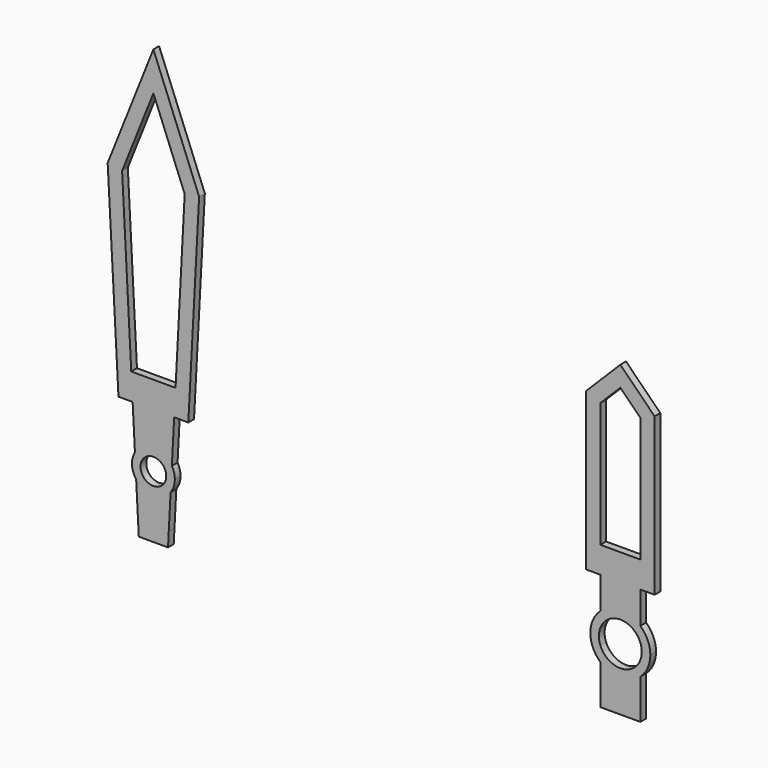
from build123d import *

# Parameters (mm, degrees)
F1_DEPTH = 0.25
F0_W     = 1.4
F0_H     = 0.5
F0_W_2   = 0.5
F0_H_2   = 0.9224010788
F0_W_3   = 0.7


with BuildPart() as f1:
    # F0 (on Front) → F1 (new body)
    with BuildSketch(Plane.XZ):
        Polygon((-37.0991800716, -2.1753170716), (-36.0761235664, -2.1753170716), (-36.0497890945, -1.6753170716), (-37.1255145435, -1.6753170716), align=None)
        Polygon((-34.987651819, 8.9829219505), (-36.587651819, 13), (-36.587651819, 11.6487521661), (-35.4928014695, 8.8999400996), (-35.8126961933, 2.8262522461), (-35.316756933, 2.8262522461), align=None)
        Polygon((-36.587651819, 11.6487521661), (-36.587651819, 13), (-38.187651819, 8.9829219505), (-37.858546705, 2.8262522461), (-37.3626074446, 2.8262522461), (-37.6825021685, 8.8999400996), align=None)
        with BuildLine():
            ThreePointArc((-35.941497264, 0.380768028), (-36.2155470091, 0.6511820103), (-36.587651819, 0.75))
            ThreePointArc((-36.587651819, 0.75), (-36.9597566288, 0.6511820103), (-37.2338063739, 0.380768028))
            ThreePointArc((-37.2338063739, 0.380768028), (-37.3366137217, -0.0394470323), (-37.1902330591, -0.4465376233))
            ThreePointArc((-37.1902330591, -0.4465376233), (-36.587651819, -0.75), (-35.9850705789, -0.4465376233))
            ThreePointArc((-35.9850705789, -0.4465376233), (-35.8754594538, -0.2351213196), (-35.837651819, 0))
            ThreePointArc((-35.837651819, 0), (-35.8640787694, 0.1973373809), (-35.941497264, 0.380768028))
        make_face()
        with BuildLine():
            ThreePointArc((-36.137651819, 0), (-36.9058498705, -0.3181980515), (-36.587651819, 0.45))
            ThreePointArc((-36.587651819, 0.45), (-36.2694537675, 0.3181980515), (-36.137651819, 0))
        make_face(mode=Mode.SUBTRACT)
        with BuildLine():
            Line((-37.1902330591, -0.4465376233), (-37.1255145435, -1.6753170716))
            Line((-37.1255145435, -1.6753170716), (-36.0497890945, -1.6753170716))
            Line((-36.0497890945, -1.6753170716), (-35.9850705789, -0.4465376233))
            ThreePointArc((-35.9850705789, -0.4465376233), (-36.587651819, -0.75), (-37.1902330591, -0.4465376233))
        make_face()
        with BuildLine():
            Line((-35.8612780839, 1.9038511673), (-36.587651819, 1.9038511673))
            Line((-36.587651819, 1.9038511673), (-36.587651819, 0.75))
            ThreePointArc((-36.587651819, 0.75), (-36.2155470091, 0.6511820103), (-35.941497264, 0.380768028))
            Line((-35.941497264, 0.380768028), (-35.8612780839, 1.9038511673))
        make_face()
        with BuildLine():
            Line((-36.587651819, 0.75), (-36.587651819, 1.9038511673))
            Line((-36.587651819, 1.9038511673), (-37.3140255541, 1.9038511673))
            Line((-37.3140255541, 1.9038511673), (-37.2338063739, 0.380768028))
            ThreePointArc((-37.2338063739, 0.380768028), (-36.9597566288, 0.6511820103), (-36.587651819, 0.75))
        make_face()
        Polygon((-37.3626074446, 2.8262522461), (-37.858546705, 2.8262522461), (-37.8092397051, 1.9038511673), (-37.3140255541, 1.9038511673), align=None)
        Polygon((-36.587651819, 1.9038511673), (-36.587651819, 2.8262522461), (-37.3626074446, 2.8262522461), (-37.3140255541, 1.9038511673), align=None)
        Polygon((-35.8126961933, 2.8262522461), (-36.587651819, 2.8262522461), (-36.587651819, 1.9038511673), (-35.8612780839, 1.9038511673), align=None)
        Polygon((-35.3660639329, 1.9038511673), (-35.316756933, 2.8262522461), (-35.8126961933, 2.8262522461), (-35.8612780839, 1.9038511673), align=None)
    extrude(amount=F1_DEPTH)


with BuildPart() as f1b:
    # F0 (on Front) → F1, piece 2 (new body)
    with BuildSketch(Plane.XZ):
        Polygon((-19.0497518182, 7.4), (-20.2497518182, 8.6), (-20.2497518182, 7.8928932188), (-19.5497518182, 7.1928932188), (-19.5497518182, 2.8262522461), (-19.0497518182, 2.8262522461), align=None)
        Polygon((-21.4497518182, 7.4), (-21.4497518182, 2.8262522461), (-20.9497518182, 2.8262522461), (-20.9497518182, 7.1928932188), (-20.2497518182, 7.8928932188), (-20.2497518182, 8.6), align=None)
        with BuildLine():
            ThreePointArc((-19.5497518182, 0.7826237921), (-19.8750886239, 0.9808809769), (-20.2497518182, 1.05))
            Line((-20.2497518182, 1.05), (-20.2497518182, 0.75))
            ThreePointArc((-20.2497518182, 0.75), (-19.8251600615, 0.618240924), (-19.5497518182, 0.2692582404))
            Line((-19.5497518182, 0.2692582404), (-19.5497518182, 0.7826237921))
        make_face()
        with BuildLine():
            ThreePointArc((-20.2497518182, 1.05), (-20.6244150124, 0.9808809769), (-20.9497518182, 0.7826237921))
            Line((-20.9497518182, 0.7826237921), (-20.9497518182, 0.2692582404))
            ThreePointArc((-20.9497518182, 0.2692582404), (-20.6743435749, 0.618240924), (-20.2497518182, 0.75))
            Line((-20.2497518182, 0.75), (-20.2497518182, 1.05))
        make_face()
        with BuildLine():
            Line((-20.9497518182, 0.2692582404), (-20.9497518182, 0.7826237921))
            ThreePointArc((-20.9497518182, 0.7826237921), (-21.2997518182, 0), (-20.9497518182, -0.7826237921))
            Line((-20.9497518182, -0.7826237921), (-20.9497518182, -0.2692582404))
            ThreePointArc((-20.9497518182, -0.2692582404), (-20.9997518182, 0), (-20.9497518182, 0.2692582404))
        make_face()
        with BuildLine():
            Line((-20.9497518182, -0.2692582404), (-20.9497518182, -0.7826237921))
            ThreePointArc((-20.9497518182, -0.7826237921), (-20.2497518182, -1.05), (-19.5497518182, -0.7826237921))
            Line((-19.5497518182, -0.7826237921), (-19.5497518182, -0.2692582404))
            ThreePointArc((-19.5497518182, -0.2692582404), (-20.2497518182, -0.75), (-20.9497518182, -0.2692582404))
        make_face()
        with BuildLine():
            Line((-19.5497518182, -0.2692582404), (-19.5497518182, -0.7826237921))
            ThreePointArc((-19.5497518182, -0.7826237921), (-19.2912373425, -0.428660705), (-19.1997518182, 0))
            ThreePointArc((-19.1997518182, 0), (-19.2912373425, 0.428660705), (-19.5497518182, 0.7826237921))
            Line((-19.5497518182, 0.7826237921), (-19.5497518182, 0.2692582404))
            ThreePointArc((-19.5497518182, 0.2692582404), (-19.512357758, 0.1369306394), (-19.4997518182, 0))
            ThreePointArc((-19.4997518182, 0), (-19.512357758, -0.1369306394), (-19.5497518182, -0.2692582404))
        make_face()
        with Locations((-20.2497518182, -1.9253170716)):
            Rectangle(F0_W, F0_H)
        with BuildLine():
            Line((-20.9497518182, -0.7826237921), (-20.9497518182, -1.6753170716))
            Line((-20.9497518182, -1.6753170716), (-19.5497518182, -1.6753170716))
            Line((-19.5497518182, -1.6753170716), (-19.5497518182, -0.7826237921))
            ThreePointArc((-19.5497518182, -0.7826237921), (-20.2497518182, -1.05), (-20.9497518182, -0.7826237921))
        make_face()
        with BuildLine():
            Line((-19.5497518182, 1.9038511673), (-20.2497518182, 1.9038511673))
            Line((-20.2497518182, 1.9038511673), (-20.2497518182, 1.05))
            ThreePointArc((-20.2497518182, 1.05), (-19.8750886239, 0.9808809769), (-19.5497518182, 0.7826237921))
            Line((-19.5497518182, 0.7826237921), (-19.5497518182, 1.9038511673))
        make_face()
        with BuildLine():
            Line((-20.2497518182, 1.9038511673), (-20.9497518182, 1.9038511673))
            Line((-20.9497518182, 1.9038511673), (-20.9497518182, 0.7826237921))
            ThreePointArc((-20.9497518182, 0.7826237921), (-20.6244150124, 0.9808809769), (-20.2497518182, 1.05))
            Line((-20.2497518182, 1.05), (-20.2497518182, 1.9038511673))
        make_face()
        with Locations((-21.1997518182, 2.3650517067)):
            Rectangle(F0_W_2, F0_H_2)
        with Locations((-19.2997518182, 2.3650517067)):
            Rectangle(F0_W_2, F0_H_2)
        with Locations((-19.8997518182, 2.3650517067)):
            Rectangle(F0_W_3, F0_H_2)
        with Locations((-20.5997518182, 2.3650517067)):
            Rectangle(F0_W_3, F0_H_2)
    extrude(amount=F1_DEPTH)


solid = Compound([f1.part, f1b.part])
